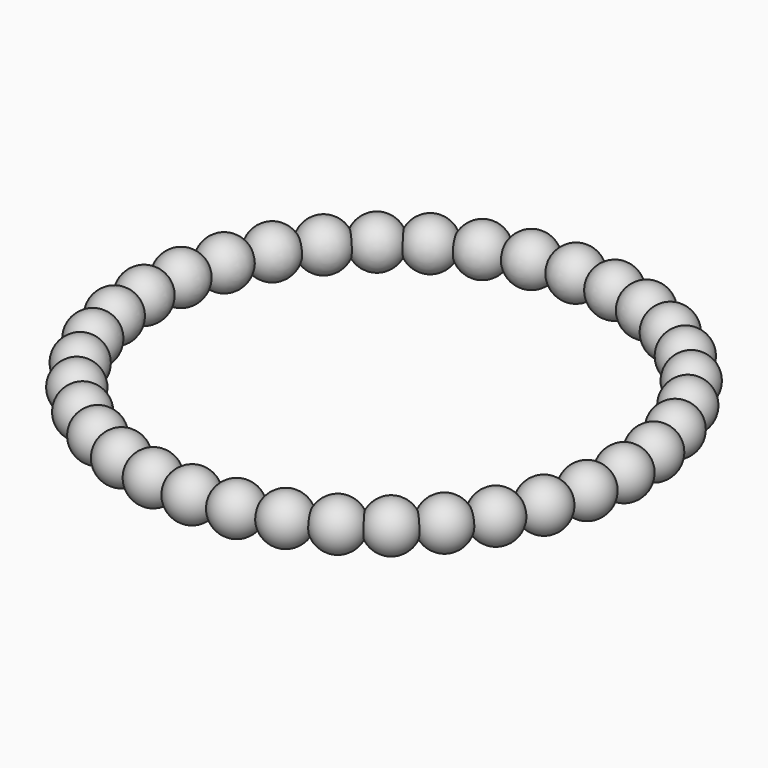
from build123d import *

# Parameters (mm, degrees)
F2_COUNT = 36


with BuildPart() as f1:
    # F0 (on Front) → F1 (revolve)
    with BuildSketch(Plane.XZ):
        with BuildLine():
            Line((100, -10), (100, 10))
            ThreePointArc((100, 10), (90, 0), (100, -10))
        make_face()
    revolve(axis=Axis((100, 0, 0), (0, 0, -1)))


with BuildPart() as f2_1:
    # F2: instance of F1
    add(f1.part.rotate(Axis((0, 0, -18.965825), (0, 0, -1)), 1 * 360 / F2_COUNT))


with BuildPart() as f2_2:
    # F2: instance of F1
    add(f1.part.rotate(Axis((0, 0, -18.965825), (0, 0, -1)), 2 * 360 / F2_COUNT))


with BuildPart() as f2_3:
    # F2: instance of F1
    add(f1.part.rotate(Axis((0, 0, -18.965825), (0, 0, -1)), 3 * 360 / F2_COUNT))


with BuildPart() as f2_4:
    # F2: instance of F1
    add(f1.part.rotate(Axis((0, 0, -18.965825), (0, 0, -1)), 4 * 360 / F2_COUNT))


with BuildPart() as f2_5:
    # F2: instance of F1
    add(f1.part.rotate(Axis((0, 0, -18.965825), (0, 0, -1)), 5 * 360 / F2_COUNT))


with BuildPart() as f2_6:
    # F2: instance of F1
    add(f1.part.rotate(Axis((0, 0, -18.965825), (0, 0, -1)), 6 * 360 / F2_COUNT))


with BuildPart() as f2_7:
    # F2: instance of F1
    add(f1.part.rotate(Axis((0, 0, -18.965825), (0, 0, -1)), 7 * 360 / F2_COUNT))


with BuildPart() as f2_8:
    # F2: instance of F1
    add(f1.part.rotate(Axis((0, 0, -18.965825), (0, 0, -1)), 8 * 360 / F2_COUNT))


with BuildPart() as f2_9:
    # F2: instance of F1
    add(f1.part.rotate(Axis((0, 0, -18.965825), (0, 0, -1)), 9 * 360 / F2_COUNT))


with BuildPart() as f2_10:
    # F2: instance of F1
    add(f1.part.rotate(Axis((0, 0, -18.965825), (0, 0, -1)), 10 * 360 / F2_COUNT))


with BuildPart() as f2_11:
    # F2: instance of F1
    add(f1.part.rotate(Axis((0, 0, -18.965825), (0, 0, -1)), 11 * 360 / F2_COUNT))


with BuildPart() as f2_12:
    # F2: instance of F1
    add(f1.part.rotate(Axis((0, 0, -18.965825), (0, 0, -1)), 12 * 360 / F2_COUNT))


with BuildPart() as f2_13:
    # F2: instance of F1
    add(f1.part.rotate(Axis((0, 0, -18.965825), (0, 0, -1)), 13 * 360 / F2_COUNT))


with BuildPart() as f2_14:
    # F2: instance of F1
    add(f1.part.rotate(Axis((0, 0, -18.965825), (0, 0, -1)), 14 * 360 / F2_COUNT))


with BuildPart() as f2_15:
    # F2: instance of F1
    add(f1.part.rotate(Axis((0, 0, -18.965825), (0, 0, -1)), 15 * 360 / F2_COUNT))


with BuildPart() as f2_16:
    # F2: instance of F1
    add(f1.part.rotate(Axis((0, 0, -18.965825), (0, 0, -1)), 16 * 360 / F2_COUNT))


with BuildPart() as f2_17:
    # F2: instance of F1
    add(f1.part.rotate(Axis((0, 0, -18.965825), (0, 0, -1)), 17 * 360 / F2_COUNT))


with BuildPart() as f2_18:
    # F2: instance of F1
    add(f1.part.rotate(Axis((0, 0, -18.965825), (0, 0, -1)), 18 * 360 / F2_COUNT))


with BuildPart() as f2_19:
    # F2: instance of F1
    add(f1.part.rotate(Axis((0, 0, -18.965825), (0, 0, -1)), 19 * 360 / F2_COUNT))


with BuildPart() as f2_20:
    # F2: instance of F1
    add(f1.part.rotate(Axis((0, 0, -18.965825), (0, 0, -1)), 20 * 360 / F2_COUNT))


with BuildPart() as f2_21:
    # F2: instance of F1
    add(f1.part.rotate(Axis((0, 0, -18.965825), (0, 0, -1)), 21 * 360 / F2_COUNT))


with BuildPart() as f2_22:
    # F2: instance of F1
    add(f1.part.rotate(Axis((0, 0, -18.965825), (0, 0, -1)), 22 * 360 / F2_COUNT))


with BuildPart() as f2_23:
    # F2: instance of F1
    add(f1.part.rotate(Axis((0, 0, -18.965825), (0, 0, -1)), 23 * 360 / F2_COUNT))


with BuildPart() as f2_24:
    # F2: instance of F1
    add(f1.part.rotate(Axis((0, 0, -18.965825), (0, 0, -1)), 24 * 360 / F2_COUNT))


with BuildPart() as f2_25:
    # F2: instance of F1
    add(f1.part.rotate(Axis((0, 0, -18.965825), (0, 0, -1)), 25 * 360 / F2_COUNT))


with BuildPart() as f2_26:
    # F2: instance of F1
    add(f1.part.rotate(Axis((0, 0, -18.965825), (0, 0, -1)), 26 * 360 / F2_COUNT))


with BuildPart() as f2_27:
    # F2: instance of F1
    add(f1.part.rotate(Axis((0, 0, -18.965825), (0, 0, -1)), 27 * 360 / F2_COUNT))


with BuildPart() as f2_28:
    # F2: instance of F1
    add(f1.part.rotate(Axis((0, 0, -18.965825), (0, 0, -1)), 28 * 360 / F2_COUNT))


with BuildPart() as f2_29:
    # F2: instance of F1
    add(f1.part.rotate(Axis((0, 0, -18.965825), (0, 0, -1)), 29 * 360 / F2_COUNT))


with BuildPart() as f2_30:
    # F2: instance of F1
    add(f1.part.rotate(Axis((0, 0, -18.965825), (0, 0, -1)), 30 * 360 / F2_COUNT))


with BuildPart() as f2_31:
    # F2: instance of F1
    add(f1.part.rotate(Axis((0, 0, -18.965825), (0, 0, -1)), 31 * 360 / F2_COUNT))


with BuildPart() as f2_32:
    # F2: instance of F1
    add(f1.part.rotate(Axis((0, 0, -18.965825), (0, 0, -1)), 32 * 360 / F2_COUNT))


with BuildPart() as f2_33:
    # F2: instance of F1
    add(f1.part.rotate(Axis((0, 0, -18.965825), (0, 0, -1)), 33 * 360 / F2_COUNT))


with BuildPart() as f2_34:
    # F2: instance of F1
    add(f1.part.rotate(Axis((0, 0, -18.965825), (0, 0, -1)), 34 * 360 / F2_COUNT))


with BuildPart() as f2_35:
    # F2: instance of F1
    add(f1.part.rotate(Axis((0, 0, -18.965825), (0, 0, -1)), 35 * 360 / F2_COUNT))


solid = Compound([f1.part, f2_1.part, f2_2.part, f2_3.part, f2_4.part, f2_5.part, f2_6.part, f2_7.part, f2_8.part, f2_9.part, f2_10.part, f2_11.part, f2_12.part, f2_13.part, f2_14.part, f2_15.part, f2_16.part, f2_17.part, f2_18.part, f2_19.part, f2_20.part, f2_21.part, f2_22.part, f2_23.part, f2_24.part, f2_25.part, f2_26.part, f2_27.part, f2_28.part, f2_29.part, f2_30.part, f2_31.part, f2_32.part, f2_33.part, f2_34.part, f2_35.part])
